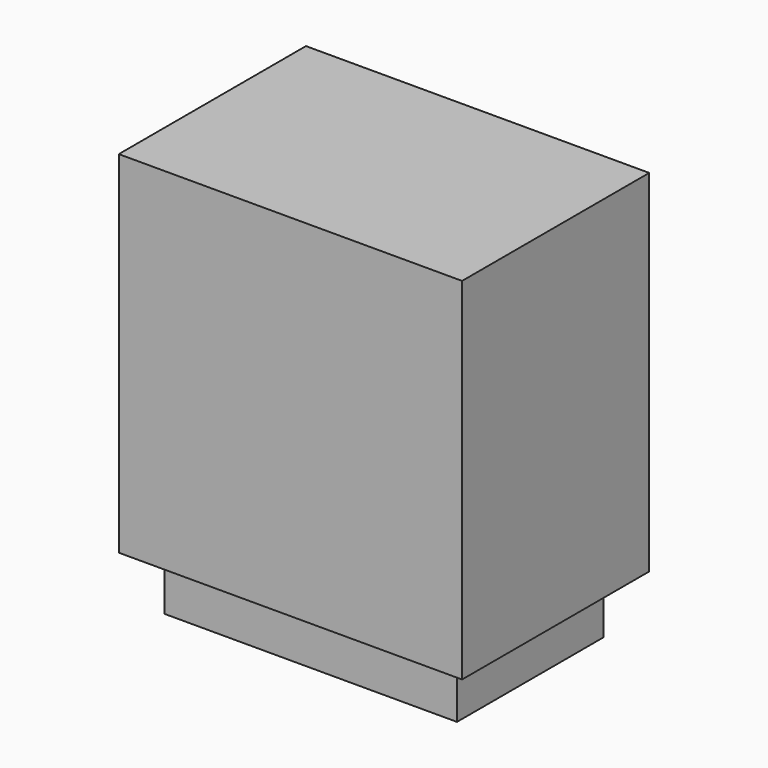
from build123d import *

# Parameters (mm, degrees)
F1_W     = 675
F1_H     = 460
F2_DEPTH = 690
F3_W     = 575
F3_H     = 360
F4_DEPTH = 110


with BuildPart() as f2:
    # F1 (on offset) → F2 (new body, through all)
    with BuildSketch(Plane.XY.offset(800)):
        with Locations((337.5, 230)):
            Rectangle(F1_W, F1_H)
    extrude(amount=-F2_DEPTH)

    # F3 (on face) → F4 (join, through all)
    with BuildSketch(Plane(origin=(0, 0, 110), x_dir=(1, 0, 0), z_dir=(0, 0, -1))):
        with Locations((337.5, -230)):
            Rectangle(F3_W, F3_H)
    extrude(amount=F4_DEPTH)


solid = f2.part
